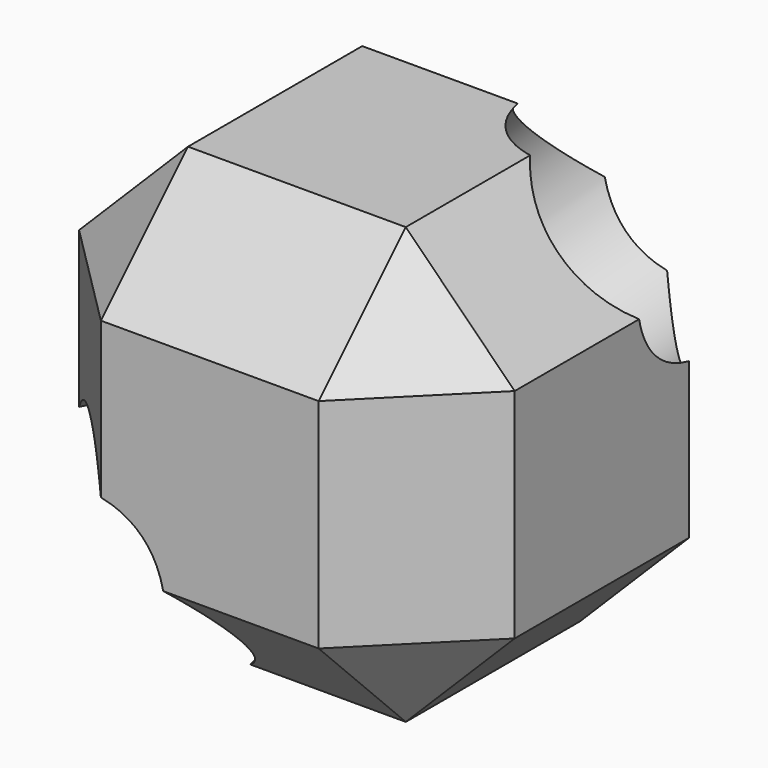
from build123d import *

# Parameters (mm, degrees)
F0_W     = 40
F0_H     = 40
F1_DEPTH = 40
F2_SIZE  = 10
F4_D     = 22.5


with BuildPart() as f1:
    # F0 (on Top) → F1 (new body)
    with BuildSketch(Plane.XY):
        Rectangle(F0_W, F0_H)
    extrude(amount=F1_DEPTH)

    # F2
    f2_edges = [f1.edges().sort_by_distance(p)[0] for p in [
        (0, -20, 40),
        (20, 0, 40),
        (0, 20, 40),
        (-20, 0, 40),
        (0, -20, 0),
        (20, 0, 0),
        (0, 20, 0),
        (-20, 0, 0),
        (20, -20, 20),
        (-20, -20, 20),
        (20, 20, 20),
        (-20, 20, 20),
    ]]
    chamfer(f2_edges, length=F2_SIZE)

    # F4 (through all)
    with Locations(Plane(origin=(20, 20, 20), x_dir=(-0.816497, 0.408248, 0.408248), z_dir=(0.57735, 0.57735, 0.57735))):
        with Locations((8.164966, 14.142136)):
            Hole(F4_D / 2)


solid = f1.part
